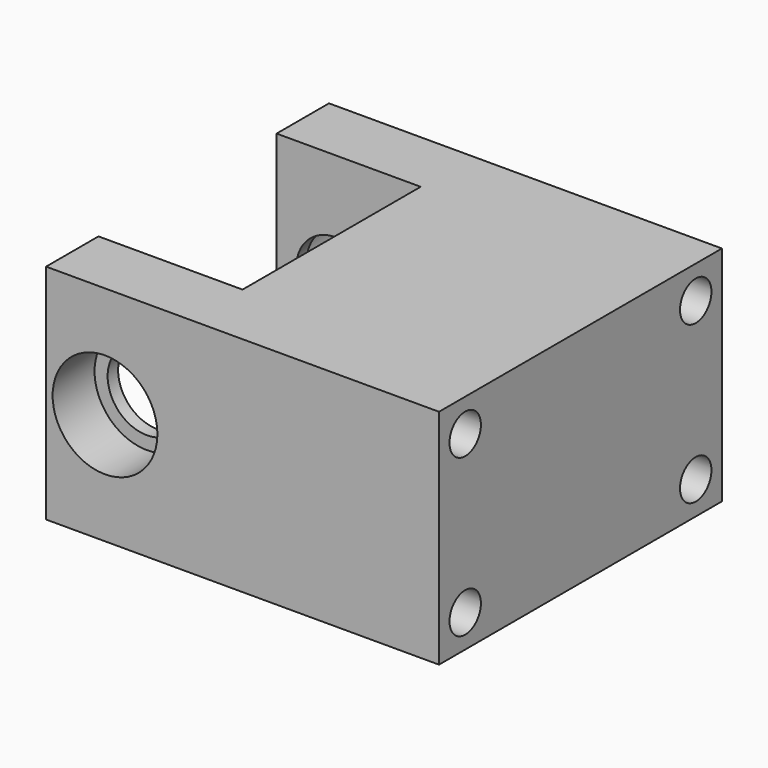
from build123d import *

# Parameters (mm, degrees)
F1_DEPTH = 8.5
F2_R     = 3
F3_DEPTH = 5
F2_R_2   = 4
F4_DEPTH = 4
F5_R     = 3
F6_DEPTH = 5
F5_R_2   = 4
F7_DEPTH = 4
F9_D     = 3


with BuildPart() as f1:
    # F0 (on Top) → F1 (new body, symmetric)
    with BuildSketch(Plane.XY):
        Polygon((19, 13.5), (-11, 13.5), (-11, 8.5), (0, 8.5), (0, -8.5), (-11, -8.5), (-11, -13.5), (19, -13.5), align=None)
    extrude(amount=F1_DEPTH, both=True)

    # F2 (on face) → F3 (cut, through all)
    with BuildSketch(Plane.XZ.offset(13.5)):
        with Locations((-6.5, 0)):
            Circle(F2_R)
    extrude(amount=-F3_DEPTH, mode=Mode.SUBTRACT)

    # F2 (on face) → F4 (cut)
    with BuildSketch(Plane.XZ.offset(13.5)):
        with Locations((-6.5, 0)):
            Circle(F2_R_2)
        with Locations((-6.5, 0)):
            Circle(F2_R, mode=Mode.SUBTRACT)
    extrude(amount=-F4_DEPTH, mode=Mode.SUBTRACT)

    # F5 (on face) → F6 (cut, through all)
    with BuildSketch(Plane(origin=(0, 13.5, 0), x_dir=(-1, 0, 0), z_dir=(0, 1, 0))):
        with Locations((6.5, 0)):
            Circle(F5_R)
    extrude(amount=-F6_DEPTH, mode=Mode.SUBTRACT)

    # F5 (on face) → F7 (cut)
    with BuildSketch(Plane(origin=(0, 13.5, 0), x_dir=(-1, 0, 0), z_dir=(0, 1, 0))):
        with Locations((6.5, 0)):
            Circle(F5_R_2)
        with Locations((6.5, 0)):
            Circle(F5_R, mode=Mode.SUBTRACT)
    extrude(amount=-F7_DEPTH, mode=Mode.SUBTRACT)

    # F9 (through all)
    with Locations(Plane.YZ.offset(19)):
        with Locations((-11, 6), (-11, -6), (11, -6), (11, 6)):
            Hole(F9_D / 2)


solid = f1.part
